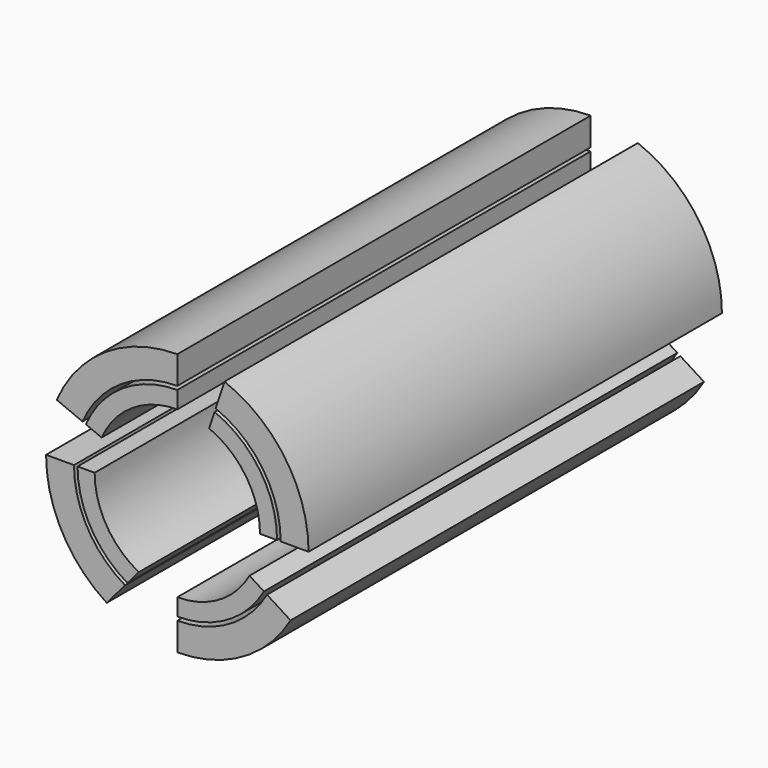
from build123d import *

# Parameters (mm, degrees)
F1_DEPTH = 25


with BuildPart() as f1:
    # F0 (on Front) → F1 (new body)
    with BuildSketch(Plane.XZ):
        with BuildLine():
            Line((5.4819255413, -3.2048388976), (4.339626468, -2.4834738007))
            ThreePointArc((4.339626468, -2.4834738007), (2.5082494889, -4.3253536852), (0, -5))
            Line((0, -5), (0, -6.35))
            ThreePointArc((0, -6.35), (3.160045332, -5.5078683263), (5.4819255413, -3.2048388976))
        make_face()
    extrude(amount=F1_DEPTH)


with BuildPart() as f1b:
    # F0 (on Front) → F1, piece 2 (new body)
    with BuildSketch(Plane.XZ):
        with BuildLine():
            Line((-3.4167111614, -5.3524372803), (-2.5270187375, -4.314414943))
            ThreePointArc((-2.5270187375, -4.314414943), (-4.3379196447, -2.4864539321), (-5, 0))
            Line((-5, 0), (-6.35, 0))
            ThreePointArc((-6.35, 0), (-5.5686001776, -3.0517522938), (-3.4167111614, -5.3524372803))
        make_face()
    extrude(amount=F1_DEPTH)


with BuildPart() as f1c:
    # F0 (on Front) → F1, piece 3 (new body)
    with BuildSketch(Plane.XZ):
        with BuildLine():
            ThreePointArc((-4.5867578061, 1.9903901196), (-2.7429955707, 4.1804276455), (0, 5))
            Line((0, 5), (0, 6.35))
            ThreePointArc((0, 6.35), (-3.4926049616, 5.3032264313), (-5.8337243926, 2.508019081))
            Line((-5.8337243926, 2.508019081), (-4.5867578061, 1.9903901196))
        make_face()
    extrude(amount=F1_DEPTH)


with BuildPart() as f1d:
    # F0 (on Front) → F1, piece 4 (new body)
    with BuildSketch(Plane.XZ):
        with BuildLine():
            ThreePointArc((1.8557782902, 4.6428533186), (4.1399813678, 2.8036680036), (5, 0))
            Line((5, 0), (6.35, 0))
            ThreePointArc((6.35, 0), (5.2348521129, 3.5942764719), (2.2810792579, 5.9261435537))
            Line((2.2810792579, 5.9261435537), (1.8557782902, 4.6428533186))
        make_face()
    extrude(amount=F1_DEPTH)


with BuildPart() as f1e:
    # F0 (on Front) → F1, piece 5 (new body)
    with BuildSketch(Plane.XZ):
        with BuildLine():
            ThreePointArc((1.5404753982, 3.6914679394), (3.3288062119, 2.2178929649), (4, 0))
            Line((4, 0), (4.826, 0))
            ThreePointArc((4.826, 0), (3.99884969, 2.701754459), (1.800936943, 4.4773767015))
            Line((1.800936943, 4.4773767015), (1.5404753982, 3.6914679394))
        make_face()
    extrude(amount=F1_DEPTH)


with BuildPart() as f1f:
    # F0 (on Front) → F1, piece 6 (new body)
    with BuildSketch(Plane.XZ):
        with BuildLine():
            ThreePointArc((-3.6630244465, 1.6069386747), (-2.1877208804, 3.3487127899), (0, 4))
            Line((0, 4), (0, 4.826))
            ThreePointArc((0, 4.826), (-2.6463784586, 4.0357102292), (-4.42603258, 1.9236713858))
            Line((-4.42603258, 1.9236713858), (-3.6630244465, 1.6069386747))
        make_face()
    extrude(amount=F1_DEPTH)


with BuildPart() as f1g:
    # F0 (on Front) → F1, piece 7 (new body)
    with BuildSketch(Plane.XZ):
        with BuildLine():
            Line((-2.4118827565, -4.1800834404), (-1.8629850393, -3.5396732537))
            ThreePointArc((-1.8629850393, -3.5396732537), (-3.424320382, -2.0673727098), (-4, 0))
            Line((-4, 0), (-4.826, 0))
            ThreePointArc((-4.826, 0), (-4.1791160658, -2.4135585571), (-2.4118827565, -4.1800834404))
        make_face()
    extrude(amount=F1_DEPTH)


with BuildPart() as f1h:
    # F0 (on Front) → F1, piece 8 (new body)
    with BuildSketch(Plane.XZ):
        with BuildLine():
            Line((4.1923621722, -2.3904759812), (3.4931085088, -1.9488953143))
            ThreePointArc((3.4931085088, -1.9488953143), (2.0253911651, -3.4493174149), (0, -4))
            Line((0, -4), (0, -4.826))
            ThreePointArc((0, -4.826), (2.4242358502, -4.1729314088), (4.1923621722, -2.3904759812))
        make_face()
    extrude(amount=F1_DEPTH)


solid = Compound([f1.part, f1b.part, f1c.part, f1d.part, f1e.part, f1f.part, f1g.part, f1h.part])
